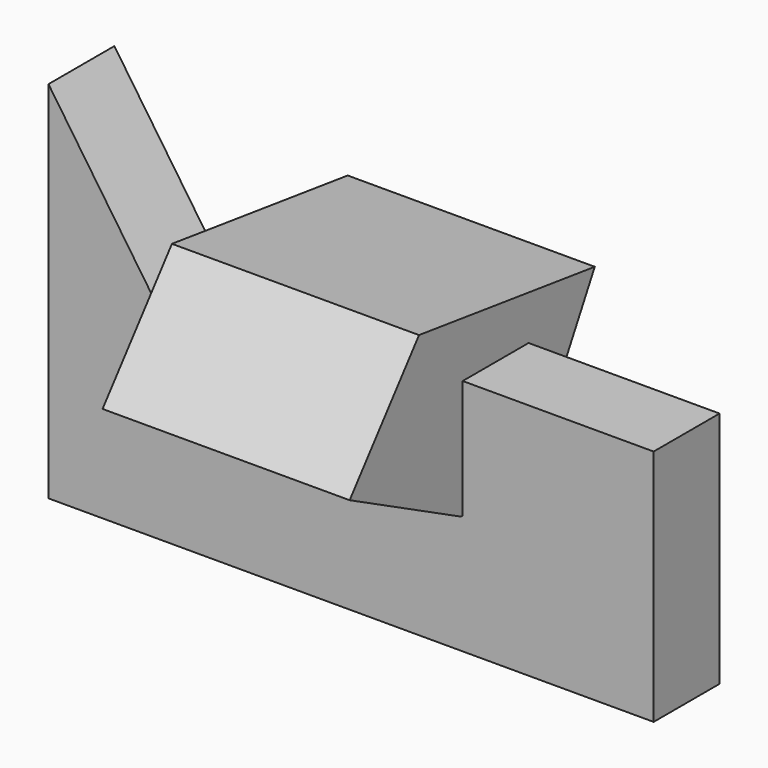
from build123d import *

# Parameters (mm, degrees)
F1_DEPTH  = 25.4
F1_FACE_W = 25.4
F1_FACE_H = 73.408562
F3_DEPTH  = 76.2


with BuildPart() as f1:
    # F0 (on Front) → F1 (new body)
    with BuildSketch(Plane.XZ):
        Polygon((-51.548243, 75.634524), (-51.548243, -36.838397), (58.88731, -36.838397), (58.88731, 36.570165), (0, 0), align=None)
    extrude(amount=F1_DEPTH)

    # F2 (on Right) + F1_face (on face) → F3 (join)
    with BuildSketch(Plane.YZ):
        Polygon((-68.981469, 21.922866), (-26.028721, 0), (0, 0), (25.51608, 46.891879), (-42.239681, 55.883452), align=None)
    with BuildSketch(Plane(origin=(58.88731, -12.7, -0.134116), x_dir=(0, 1, 0), z_dir=(1, 0, 0))):
        Rectangle(F1_FACE_W, F1_FACE_H)
    extrude(amount=F3_DEPTH)


solid = f1.part
